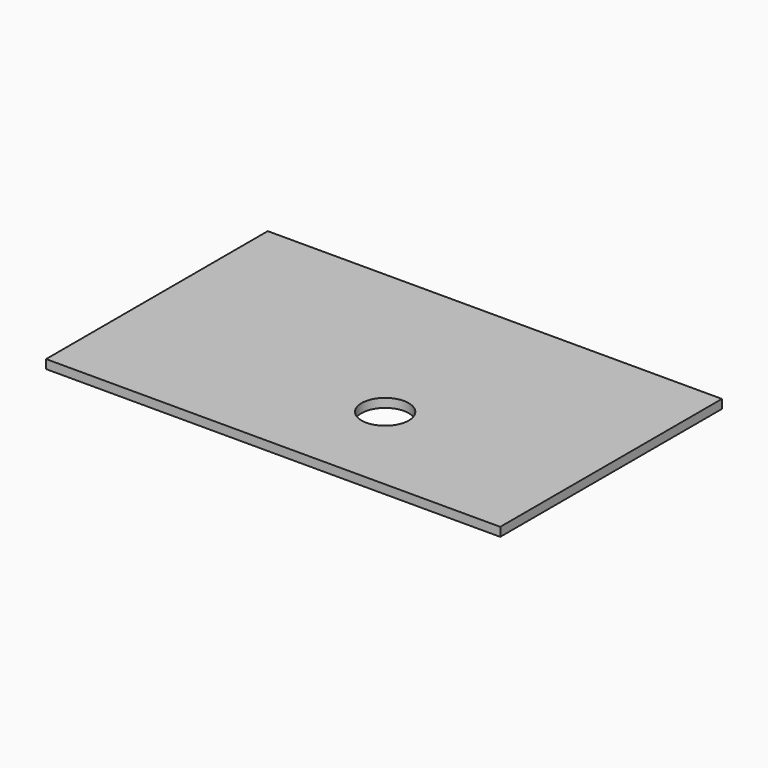
from build123d import *

# Parameters (mm, degrees)
F0_R     = 12.7
F1_DEPTH = 4.7625


with BuildPart() as f1:
    # F0 (on Top) → F1 (new body)
    with BuildSketch(Plane.XY):
        Polygon((122.301, 74.6125), (-122.301, 74.6125), (-122.301, -74.6125), (0, -74.6125), (122.301, -74.6125), align=None)
        with Locations((19.05, -23.0505)):
            Circle(F0_R, mode=Mode.SUBTRACT)
    extrude(amount=F1_DEPTH)


solid = f1.part
